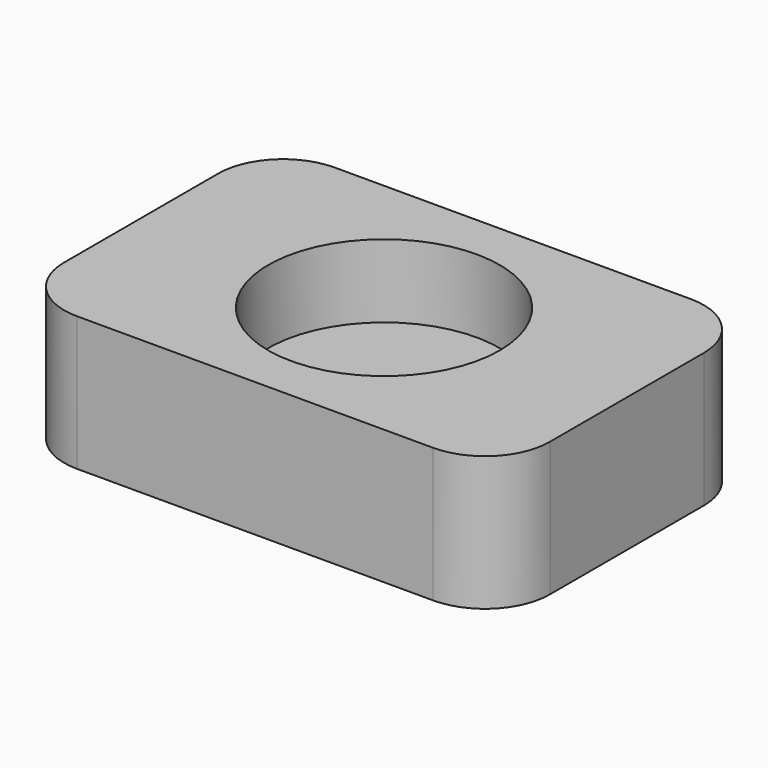
from build123d import *

# Parameters (mm, degrees)
F0_W     = 30
F0_H     = 19.9
F1_DEPTH = 8.3
F2_R     = 7.15
F3_DEPTH = 4.52
F4_R     = 4


with BuildPart() as f1:
    # F0 (on Top) → F1 (new body)
    with BuildSketch(Plane.XY):
        with Locations((-1.016058, -4.658131)):
            Rectangle(F0_W, F0_H)
    extrude(amount=F1_DEPTH)

    # F2 (on face) → F3 (cut)
    with BuildSketch(Plane.XY.offset(8.3)):
        with Locations((-1.016058, -4.658131)):
            Circle(F2_R)
    extrude(amount=-F3_DEPTH, mode=Mode.SUBTRACT)

    # F4
    f4_edges = [f1.edges().sort_by_distance(p)[0] for p in [
        (13.983942, -14.608131, 4.15),
        (-16.016058, -14.608131, 4.15),
        (13.983942, 5.291869, 4.15),
        (-16.016058, 5.291869, 4.15),
    ]]
    fillet(f4_edges, radius=F4_R)


solid = f1.part
